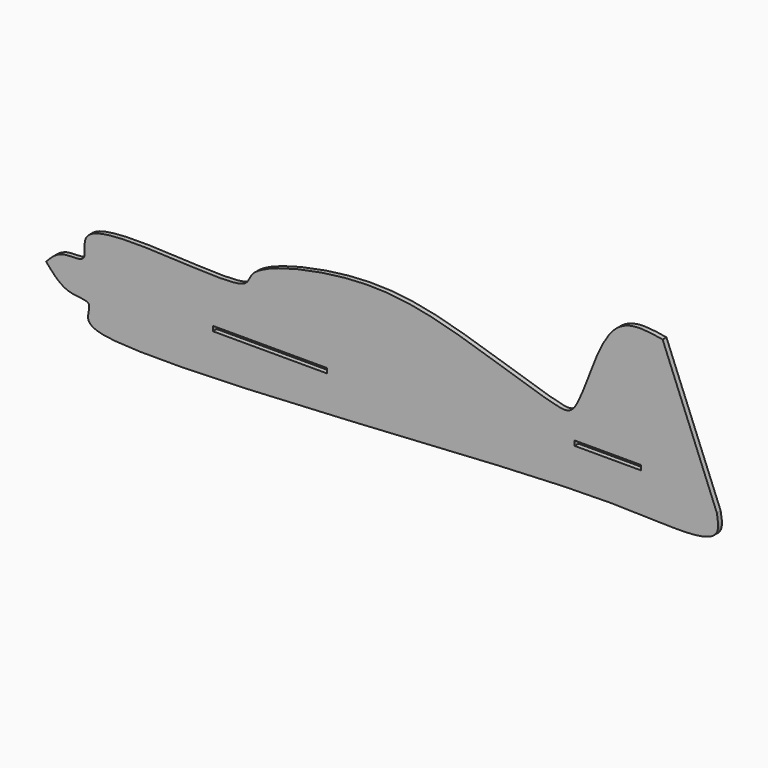
from build123d import *

# Parameters (mm, degrees)
F0_W     = 35.1627948
F0_H     = 1.4732
F0_W_2   = 20.4145642
F1_DEPTH = 1.4732


with BuildPart() as f1:
    # F0 (on Front) → F1 (new body)
    with BuildSketch(Plane.XZ):
        with BuildLine():
            add(Edge.make_bspline(
                [(-109.8149493337, 3.1385479961), (-108.2937410986, 4.7398612041), (-105.2733241214, 7.9193296609), (-95.8169200558, 5.9936022895), (-103.0716930292, 21.8166749639), (-45.8800330673, 12.6839948586), (-48.3322256634, 23.004533034), (-12.4588899674, 31.7195768008), (16.137292802, 25.7993579285), (46.9605962111, 14.806579809), (55.1164949058, 14.4987773217), (62.3515511385, 46.964729651), (75.0967249279, 44.7885180128), (80.5161073804, 43.8631698489)],
                knots=[0, 0, 0, 0, 0.0561293893, 0.1114470434, 0.1696318028, 0.3204203123, 0.3715525192, 0.4947237521, 0.6234375718, 0.7454655046, 0.798580671, 0.9143543748, 1, 1, 1, 1], degree=3))
            add(Edge.make_bspline(
                [(97.2629711032, 2.1647161338), (97.5995889647, 0.231244202), (98.2917377632, -3.7443329366), (90.9558829096, -7.0523158948), (63.8361527594, -4.7333392277), (4.1277144575, -8.412753388), (-80.3541566536, -13.580831774), (-98.8138785968, -10.1346397531), (-94.9099022927, -2.7372264279), (-103.7875835133, -3.8642697161), (-107.6701807606, 0.6466761237), (-109.8149493337, 3.1385479961)],
                knots=[0, 0, 0, 0, 0.0599988401, 0.1233687508, 0.2529805516, 0.4647275706, 0.7095930047, 0.8021344628, 0.8553335095, 0.9200854164, 1, 1, 1, 1], degree=3))
            Line((97.2629711032, 2.1647161338), (80.5161073804, 43.8631698489))
        make_face()
        with Locations((-40.7441928983, 1.6833419213)):
            Rectangle(F0_W, F0_H, mode=Mode.SUBTRACT)
        with Locations((63.5878294706, 6.8548019044)):
            Rectangle(F0_W_2, F0_H, mode=Mode.SUBTRACT)
    extrude(amount=F1_DEPTH)


solid = f1.part
